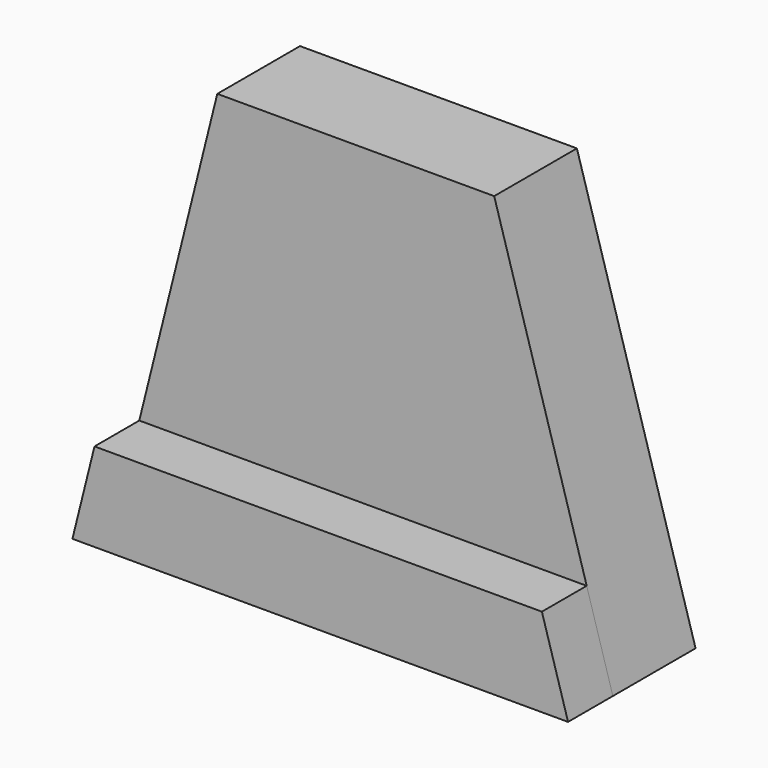
from build123d import *

# Parameters (mm, degrees)
F1_DEPTH = 24
F3_DEPTH = 13


with BuildPart() as f1:
    # F0 (on Front) → F1 (new body)
    with BuildSketch(Plane.XZ):
        Polygon((30.517951, 0), (-33.758782, 0), (-56.984834, -93.20651), (58.065102, -93.20651), align=None)
    extrude(amount=F1_DEPTH)

    # F2 (on face) → F3 (join)
    with BuildSketch(Plane.XZ.offset(24)):
        Polygon((-51.863408, -72.654148), (-56.984834, -93.20651), (58.065102, -93.20651), (51.990858, -72.654148), align=None)
    extrude(amount=F3_DEPTH)


solid = f1.part
